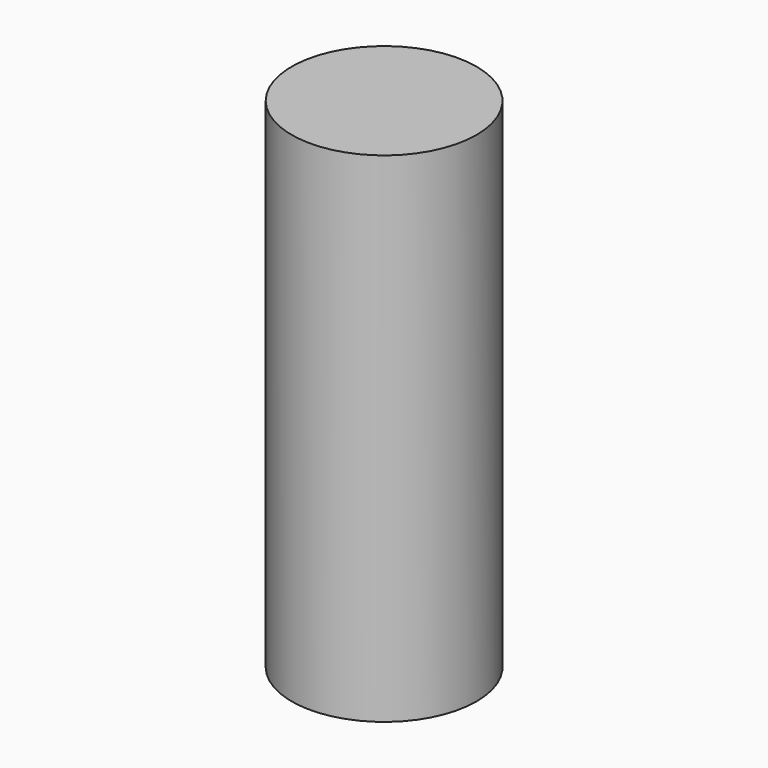
from build123d import *

# Parameters (mm, degrees)
CYLINDER_R     = 2.7813
CYLINDER_DEPTH = 15


with BuildPart() as part:
    # Cylinder → Cylinder (new body)
    with BuildSketch(Plane.XY.offset(-2.5)):
        Circle(CYLINDER_R)
    extrude(amount=CYLINDER_DEPTH)


solid = part.part
